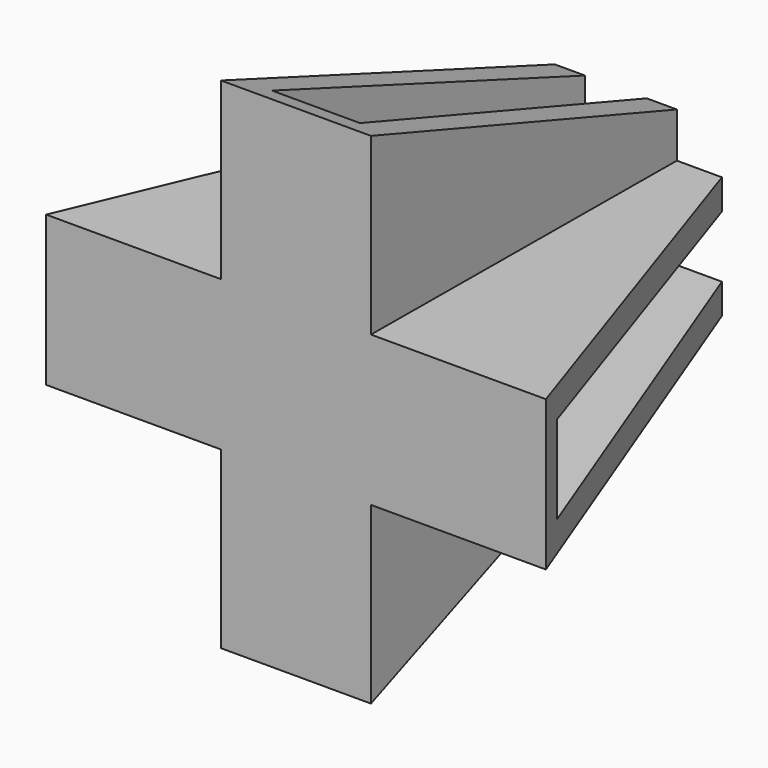
from build123d import *

# Parameters (mm, degrees)
F1_DEPTH       = 25.4
F1_TAPER       = 2
F3_DEPTH       = 31.7510001
F5_DEPTH       = 20.6385001
F5_DEPTH_BACK  = 11.1135001
F6_W           = 6.096
F6_H           = 6.096
F7_DEPTH       = 6.35
F7_TAPER       = 2
F8_W           = 60.6717504561
F8_H           = 50.1286070794
F9_DEPTH       = 31.7510001
F10_W          = 37.0408929884
F10_H          = 41.4357688278
F11_DEPTH      = 11.1135001
F11_DEPTH_BACK = 20.6385001


with BuildPart() as f1:
    # F0 (on Front) → F1 (new body)
    with BuildSketch(Plane.XZ):
        Polygon((9.525, 31.75), (0, 31.75), (0, 20.6375), (-11.1125, 20.6375), (-11.1125, 11.1125), (0, 11.1125), (0, 0), (9.525, 0), (9.525, 11.1125), (20.6375, 11.1125), (20.6375, 20.6375), (9.525, 20.6375), align=None)
    extrude(amount=-F1_DEPTH, taper=F1_TAPER)

    # F2 (on Top) → F3 (cut, through all)
    with BuildSketch(Plane.XY):
        Polygon((2.8000508235, 25.4), (1.9685, 1.5875), (7.5565, 1.5875), (6.7249491765, 25.4), align=None)
    extrude(amount=F3_DEPTH, mode=Mode.SUBTRACT)

    # F4 (on Right) → F5 (cut, two sides)
    with BuildSketch(Plane.YZ) as f5_sk:
        Polygon((25.4, 17.8374491765), (1.5875, 18.669), (1.5875, 13.081), (25.4, 13.9125508235), align=None)
    extrude(amount=F5_DEPTH, mode=Mode.SUBTRACT)
    extrude(f5_sk.sketch, amount=-F5_DEPTH_BACK, mode=Mode.SUBTRACT)

    # F6 (on face) → F7 (join)
    with BuildSketch(Plane(origin=(0, 1.5875, 0), x_dir=(-1, 0, 0), z_dir=(0, 1, 0))):
        with Locations((-4.7625, 15.875)):
            Rectangle(F6_W, F6_H)
    extrude(amount=F7_DEPTH, taper=F7_TAPER)

    # F8 (on Top) → F9 (cut, through all)
    with BuildSketch(Plane.XY):
        with Locations((4.5310724527, 13.3044691756)):
            Rectangle(F8_W, F8_H)
        Polygon((20.6375, 0), (-11.1125, 0), (-1.9751491765, 25.4), (11.5001491765, 25.4), align=None, mode=Mode.SUBTRACT)
    extrude(amount=F9_DEPTH, mode=Mode.SUBTRACT)

    # F10 (on Right) → F11 (cut, two sides)
    with BuildSketch(Plane.YZ) as f11_sk:
        with Locations((11.8458718061, 15.7928168774)):
            Rectangle(F10_W, F10_H)
        Polygon((0, 0), (0, 31.75), (25.4, 22.6126491765), (25.4, 9.1373508235), align=None, mode=Mode.SUBTRACT)
    extrude(amount=-F11_DEPTH, mode=Mode.SUBTRACT)
    extrude(f11_sk.sketch, amount=F11_DEPTH_BACK, mode=Mode.SUBTRACT)


solid = f1.part
